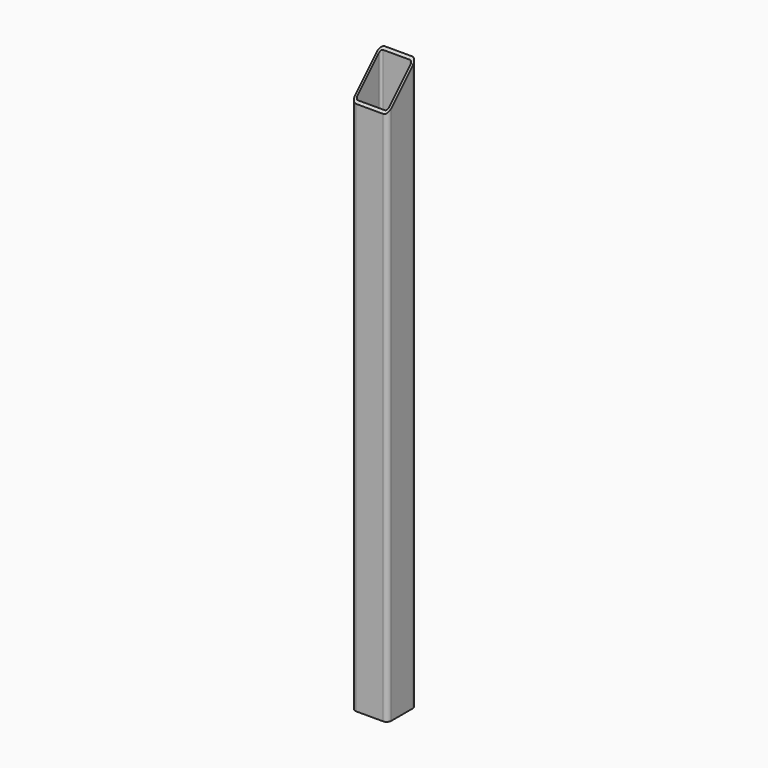
from build123d import *

# Parameters (mm, degrees)
F1_DEPTH      = 2413
F3_DEPTH      = 76.201
F3_DEPTH_BACK = 76.201


with BuildPart() as f1:
    # F0 (on Top) → F1 (new body)
    with BuildSketch(Plane.XY):
        with BuildLine():
            ThreePointArc((-76.2, -57.15), (-70.6203841816, -70.6203841816), (-57.15, -76.2))
            Line((-57.15, -76.2), (57.15, -76.2))
            ThreePointArc((57.15, -76.2), (70.6203841816, -70.6203841816), (76.2, -57.15))
            Line((76.2, -57.15), (76.2, 57.15))
            ThreePointArc((76.2, 57.15), (70.6203841816, 70.6203841816), (57.15, 76.2))
            Line((57.15, 76.2), (-57.15, 76.2))
            ThreePointArc((-57.15, 76.2), (-70.6203841816, 70.6203841816), (-76.2, 57.15))
            Line((-76.2, 57.15), (-76.2, -57.15))
        make_face()
        with BuildLine():
            Line((57.15, -66.675), (-57.15, -66.675))
            ThreePointArc((-57.15, -66.675), (-63.8851920908, -63.8851920908), (-66.675, -57.15))
            Line((-66.675, -57.15), (-66.675, 57.15))
            ThreePointArc((-66.675, 57.15), (-63.8851920908, 63.8851920908), (-57.15, 66.675))
            Line((-57.15, 66.675), (57.15, 66.675))
            ThreePointArc((57.15, 66.675), (63.8851920908, 63.8851920908), (66.675, 57.15))
            Line((66.675, 57.15), (66.675, -57.15))
            ThreePointArc((66.675, -57.15), (63.8851920908, -63.8851920908), (57.15, -66.675))
        make_face(mode=Mode.SUBTRACT)
    extrude(amount=F1_DEPTH)

    # F2 (on Right) → F3 (cut, two sides)
    with BuildSketch(Plane.YZ) as f3_sk:
        Polygon((76.2, 2413), (-76.2, 2413), (-76.2, 2260.6), align=None)
    extrude(amount=-F3_DEPTH, mode=Mode.SUBTRACT)
    extrude(f3_sk.sketch, amount=F3_DEPTH_BACK, mode=Mode.SUBTRACT)


solid = f1.part
